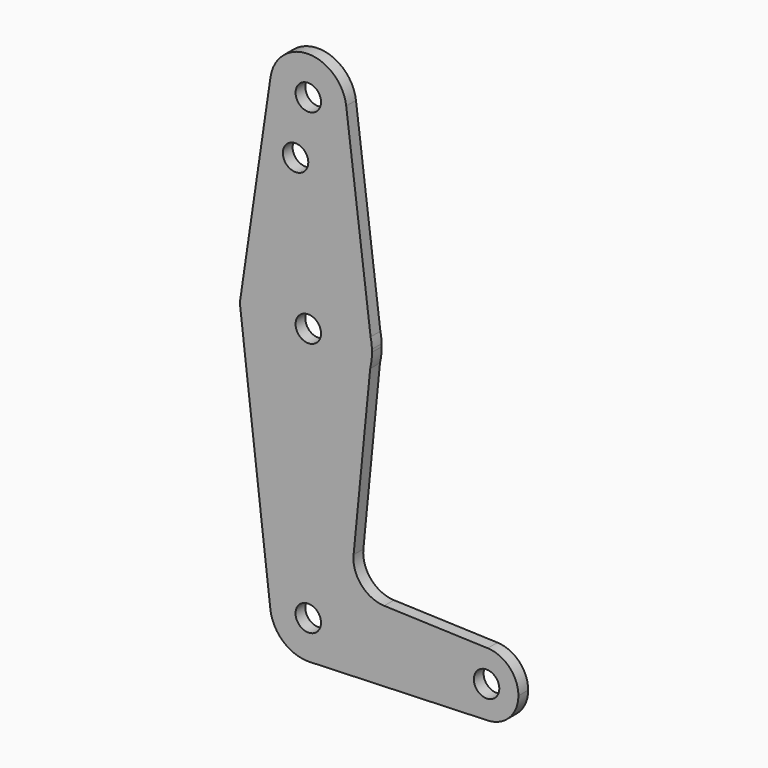
from build123d import *

# Parameters (mm, degrees)
F0_R     = 3.175
F1_DEPTH = 3.048


with BuildPart() as f1:
    # F0 (on Front) → F1 (new body)
    with BuildSketch(Plane.XZ):
        with BuildLine():
            ThreePointArc((-9.4236638917, 68.6386150491), (-0.6947036893, 57.753275869), (9.525, 67.252908061))
            ThreePointArc((9.525, 67.252908061), (9.5066279666, 67.8442199118), (9.4515827392, 68.4332506914))
            ThreePointArc((9.4515827392, 68.4332506914), (0.1036267117, 76.7773443438), (-9.4236638917, 68.6386150491))
        make_face()
        with Locations((0, 67.252908061)):
            Circle(F0_R, mode=Mode.SUBTRACT)
        with BuildLine():
            ThreePointArc((9.4515827392, 68.4332506914), (9.5066279666, 67.8442199118), (9.525, 67.252908061))
            ThreePointArc((9.525, 67.252908061), (-0.6947036893, 57.753275869), (-9.4236638917, 68.6386150491))
            Line((-9.4236638917, 68.6386150491), (-17.0751139076, 16.6040263124))
            Line((-17.0751139076, 16.6040263124), (-9.4598263283, -48.1594366871))
            ThreePointArc((-9.4598263283, -48.1594366871), (-0.5571262079, -37.5383993165), (9.525, -47.047091939))
            ThreePointArc((9.525, -47.047091939), (6.9705567315, -53.5383910272), (0.6773435479, -56.5479777249))
            Line((0.6773435479, -56.5479777249), (44.7324052746, -54.9795665535))
            ThreePointArc((44.7324052746, -54.9795665535), (36.5125000006, -47.0471928378), (44.7322036046, -39.1146101473))
            Line((44.7322036046, -39.1146101473), (18.9234018404, -38.1964439189))
            ThreePointArc((18.9234018404, -38.1964439189), (13.2224661173, -35.485992741), (11.2938088242, -29.4753775685))
            Line((11.2938088242, -29.4753775685), (15.4327477068, 12.7318970133))
            ThreePointArc((15.4327477068, 12.7318970133), (-15.8733066778, 16.6847703328), (15.5348463028, 19.7215737442))
            Line((15.5348463028, 19.7215737442), (9.4515827392, 68.4332506914))
        make_face()
        with Locations((-3.175, 52.978108061)):
            Circle(F0_R, mode=Mode.SUBTRACT)
        with BuildLine():
            Line((15.8615962708, 17.1051263858), (15.5348463028, 19.7215737442))
            ThreePointArc((15.5348463028, 19.7215737442), (-15.8733066778, 16.6847703328), (15.4327477068, 12.7318970133))
            Line((15.4327477068, 12.7318970133), (15.8615962708, 17.1051263858))
        make_face()
        with Locations((0, 16.452908061)):
            Circle(F0_R, mode=Mode.SUBTRACT)
        with BuildLine():
            ThreePointArc((15.8615962708, 17.1051263858), (15.7526378986, 18.4201457783), (15.5348463028, 19.7215737442))
            Line((15.5348463028, 19.7215737442), (15.8615962708, 17.1051263858))
        make_face()
        with BuildLine():
            ThreePointArc((15.875, 16.452908061), (15.871648714, 16.7790860811), (15.8615962708, 17.1051263858))
            Line((15.8615962708, 17.1051263858), (15.4327477068, 12.7318970133))
            ThreePointArc((15.4327477068, 12.7318970133), (15.7640492077, 14.5793078964), (15.875, 16.452908061))
        make_face()
        with BuildLine():
            ThreePointArc((9.525, -47.047091939), (-0.5571262079, -37.5383993165), (-9.4598263283, -48.1594366871))
            ThreePointArc((-9.4598263283, -48.1594366871), (-6.329713314, -54.1647006921), (0, -56.572091939))
            Line((0, -56.572091939), (0.6773435479, -56.5479777249))
            ThreePointArc((0.6773435479, -56.5479777249), (6.9705567315, -53.5383910272), (9.525, -47.047091939))
        make_face()
        with Locations((0, -47.047091939)):
            Circle(F0_R, mode=Mode.SUBTRACT)
        with BuildLine():
            Line((0.6773435479, -56.5479777249), (0, -56.572091939))
            ThreePointArc((0, -56.572091939), (0.3388863295, -56.5660614764), (0.6773435479, -56.5479777249))
        make_face()
        with BuildLine():
            ThreePointArc((52.3875, -47.047091939), (50.1615627179, -41.5351088503), (44.7322036046, -39.1146101473))
            ThreePointArc((44.7322036046, -39.1146101473), (36.5125000006, -47.0471928378), (44.7324052746, -54.9795665535))
            ThreePointArc((44.7324052746, -54.9795665535), (50.1616327839, -52.5590024237), (52.3875, -47.047091939))
        make_face()
        with Locations((44.45, -47.047091939)):
            Circle(F0_R, mode=Mode.SUBTRACT)
    extrude(amount=F1_DEPTH)


solid = f1.part
